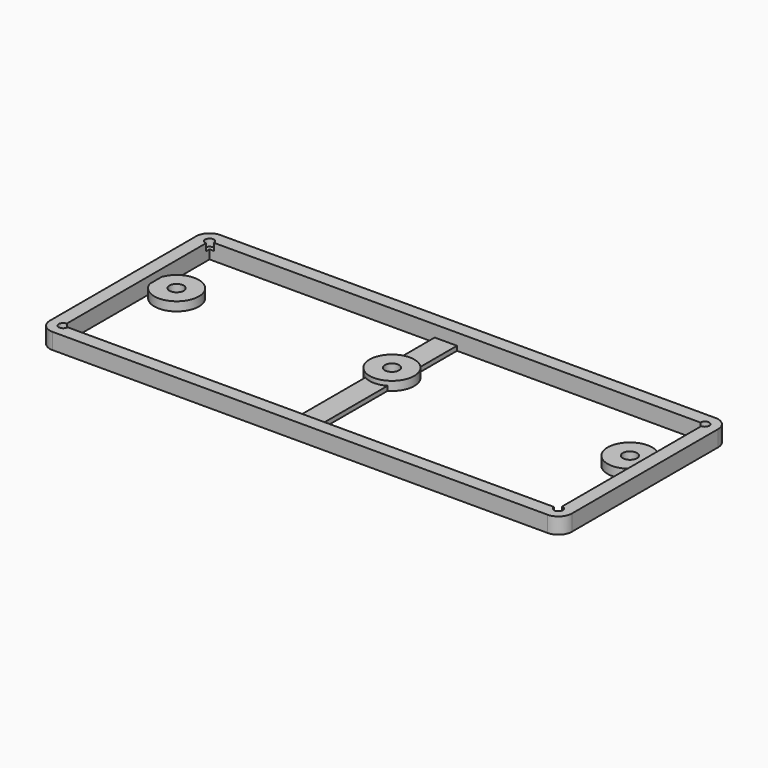
from build123d import *

# Parameters (mm, degrees)
SKETCH005_W     = 111
SKETCH005_H     = 41
PAD002_DEPTH    = 3.6
SKETCH006_R     = 5
SKETCH006_R_2   = 1.6
PAD003_DEPTH    = 2
SKETCH007_R     = 1
POCKET001_DEPTH = 5
SKETCH008_W     = 5
SKETCH008_H     = 41
SKETCH008_R     = 1.6
PAD004_DEPTH    = 1


with BuildPart() as part:
    # Sketch005 → Pad002 (new body)
    with BuildSketch(Plane.XY):
        with BuildLine():
            Line((0, -3), (111, -3))
            ThreePointArc((111, -3), (113.12132, -2.12132), (114, 0))
            Line((114, 0), (114, 41))
            ThreePointArc((114, 41), (113.12132, 43.12132), (111, 44))
            Line((111, 44), (0, 44))
            ThreePointArc((0, 44), (-2.12132, 43.12132), (-3, 41))
            Line((-3, 41), (-3, 0))
            ThreePointArc((-3, 0), (-2.12132, -2.12132), (0, -3))
        make_face()
        with Locations((55.5, 20.5)):
            Rectangle(SKETCH005_W, SKETCH005_H, mode=Mode.SUBTRACT)
    extrude(amount=PAD002_DEPTH)

    # Sketch006 → Pad003 (join)
    with BuildSketch(Plane.XY):
        with Locations((4.7, 25.9)):
            Circle(SKETCH006_R)
        with Locations((4.7, 25.9)):
            Circle(SKETCH006_R_2, mode=Mode.SUBTRACT)
        with Locations((106.3, 25.9)):
            Circle(SKETCH006_R)
        with Locations((106.3, 25.9)):
            Circle(SKETCH006_R_2, mode=Mode.SUBTRACT)
        with Locations((52.96, 25.9)):
            Circle(SKETCH006_R)
        with Locations((52.96, 25.9)):
            Circle(SKETCH006_R_2, mode=Mode.SUBTRACT)
    extrude(amount=PAD003_DEPTH)

    # Sketch007 → Pocket001 (cut)
    with BuildSketch(Plane.XY.offset(2)):
        with Locations((0, 41)):
            Circle(SKETCH007_R)
        with Locations((111, 41)):
            Circle(SKETCH007_R)
        with Locations((111, 0)):
            Circle(SKETCH007_R)
        Circle(SKETCH007_R)
    extrude(amount=POCKET001_DEPTH, mode=Mode.SUBTRACT)

    # Sketch008 → Pad004 (join)
    with BuildSketch(Plane.XY):
        with Locations((52.96, 20.5)):
            Rectangle(SKETCH008_W, SKETCH008_H)
        with Locations((52.96, 25.9)):
            Circle(SKETCH008_R, mode=Mode.SUBTRACT)
    extrude(amount=PAD004_DEPTH)


solid = part.part
